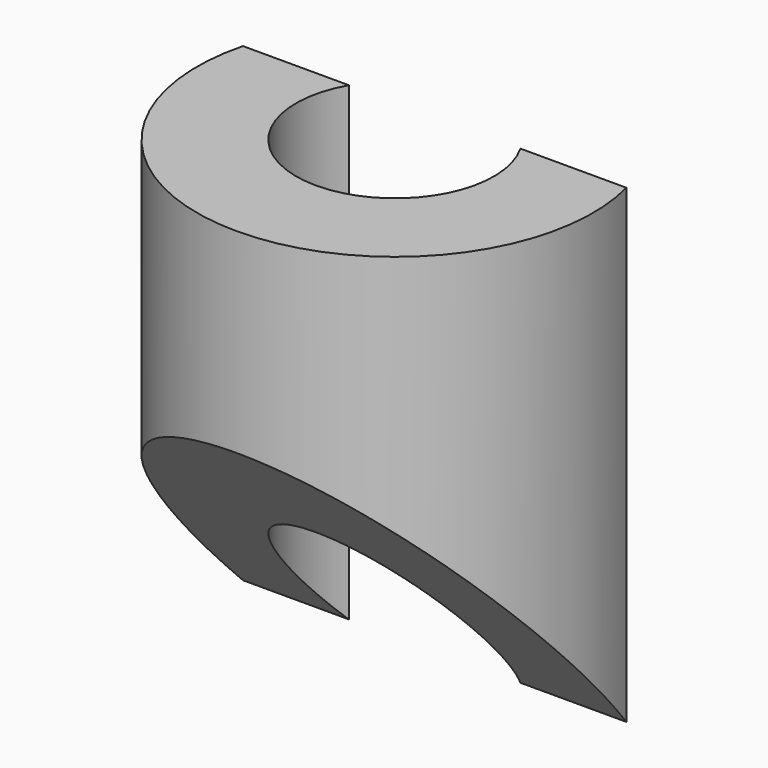
from build123d import *

# Parameters (mm, degrees)
BOX015_W                  = 10
BOX015_H                  = 10
BOX015_DEPTH              = 19
BOX014_W                  = 10
BOX014_H                  = 10
BOX014_DEPTH              = 19
CHAMFER023006003002_SIZE2 = 9
CHAMFER023006003002_SIZE  = 10
TUBE_R                    = 4
TUBE_R_2                  = 2
TUBE_DEPTH                = 10


with BuildPart() as cube015:
    # Box015 → Box015 (new body)
    with BuildSketch(Plane(origin=(-8.5, 12, 8.5), x_dir=(1, 0, 0), z_dir=(0, 0, 1))):
        with Locations((5, 5)):
            Rectangle(BOX015_W, BOX015_H)
    extrude(amount=BOX015_DEPTH)


with BuildPart() as chamfer023006003002:
    # Box014 → Box014 (new body)
    with BuildSketch(Plane(origin=(-10.5, 0, 0), x_dir=(1, 0, 0), z_dir=(0, 0, 1))):
        with Locations((5, 5)):
            Rectangle(BOX014_W, BOX014_H)
    extrude(amount=BOX014_DEPTH)

    # Chamfer023006003002
    chamfer023006003002_edges = [chamfer023006003002.edges().sort_by_distance(p)[0] for p in [
        (-5.5, 10, 19),
    ]]
    chamfer023006003002_side = chamfer023006003002.faces().sort_by_distance((-5.5, 10, 9.5))[0]
    chamfer(chamfer023006003002_edges, length=CHAMFER023006003002_SIZE, length2=CHAMFER023006003002_SIZE2, reference=chamfer023006003002_side)


with BuildPart() as chamfer023006003002_1:
    # Chamfer023006003002 placement: moved
    add(chamfer023006003002.part.moved(Location((2, 2, 3.5))))


with BuildPart() as cut003001018:
    # Tube → Tube (new body)
    with BuildSketch(Plane(origin=(-3.5, 11, 12), x_dir=(1, 0, 0), z_dir=(0, 0, 1))):
        Circle(TUBE_R)
        Circle(TUBE_R_2, mode=Mode.SUBTRACT)
    extrude(amount=TUBE_DEPTH)

    # Cut003001017: cut Chamfer023006003002
    add(chamfer023006003002_1.part, mode=Mode.SUBTRACT)

    # Cut003001018: cut Cube015
    add(cube015.part, mode=Mode.SUBTRACT)


with BuildPart() as cut003001018_1:
    # Cut003001018 placement: moved
    add(cut003001018.part.moved(Location((0, 0, 0.5))))


solid = cut003001018_1.part
